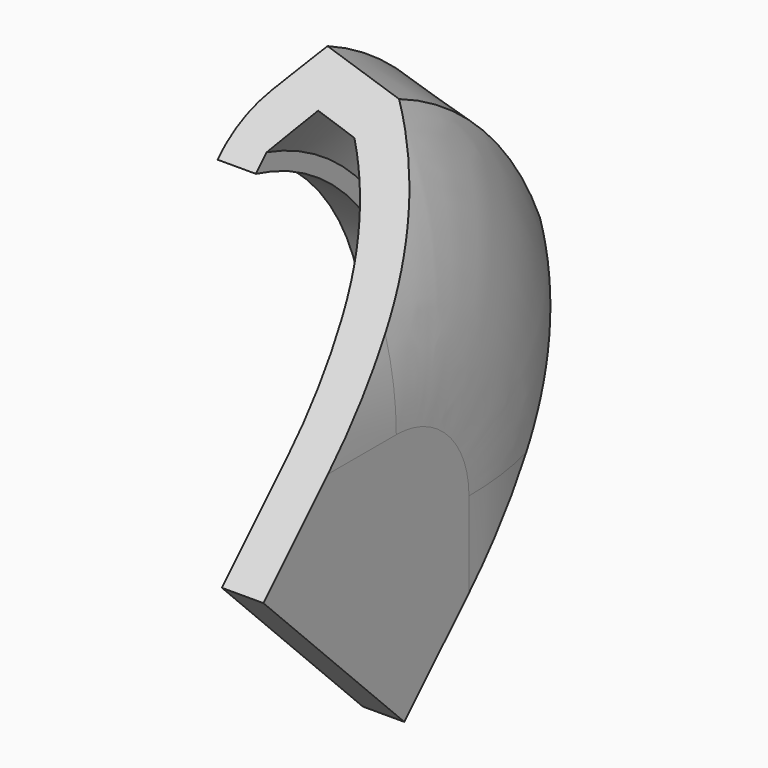
from build123d import *

# Parameters (mm, degrees)
F1_ANGLE = 90
F3_DEPTH = 10
F4_DEPTH = 10
F6_DEPTH = 25


with BuildPart() as f1:
    # F0 (on Top) → F1 (revolve)
    with BuildSketch(Plane.XY):
        with BuildLine():
            Line((0, 5.4679050659), (0, 0))
            Line((0, 0), (2.5, 0))
            Line((2.5, 0), (2.5, 5.4679050659))
            ThreePointArc((2.5, 5.4679050659), (0.9585130135, 13.202552711), (-3.4303982666, 19.7552936717))
            Line((-3.4303982666, 19.7552936717), (-8.4106450471, 20.863986155))
            Line((-8.4106450471, 20.863986155), (-10.1253781611, 18.1776133961))
            ThreePointArc((-10.1253781611, 18.1776133961), (-10.8847896659, 16.4666549044), (-11.1032370478, 14.6075245875))
            Line((-11.1032370478, 14.6075245875), (-8.8, 14.6075245875))
            Line((-8.8, 14.6075245875), (-8.8, 15.6075245875))
            Line((-8.8, 15.6075245875), (-7.2452009387, 18.0433379567))
            Line((-7.2452009387, 18.0433379567), (-4.7073274561, 17.4783616859))
            ThreePointArc((-4.7073274561, 17.4783616859), (-1.2188561035, 11.9179050659), (0, 5.4679050659))
        make_face()
    revolve(axis=Axis((1.25, 0, 0), (1, 0, 0)), revolution_arc=F1_ANGLE)

    # F3 (add): a face of the model
    f3_faces = [f1.faces().sort_by_distance(p)[0] for p in [
        (-0.9869443197, 12.0087995874, 0),
    ]]
    extrude(f3_faces, amount=F3_DEPTH)

    # F4 (add): a face of the model
    f4_faces = [f1.faces().sort_by_distance(p)[0] for p in [
        (-0.9048130801, 0, 12.0409897573),
    ]]
    extrude(f4_faces, amount=F4_DEPTH)

    # F5 (on face) → F6 (intersect)
    with BuildSketch(Plane.YZ.offset(2.5)):
        Polygon((12.4376601817, 23.0442618995), (-10, 0.6066017178), (0.6066017178, -10), (23.0442618995, 12.4376601817), align=None)
    extrude(amount=-F6_DEPTH, mode=Mode.INTERSECT)


solid = f1.part
